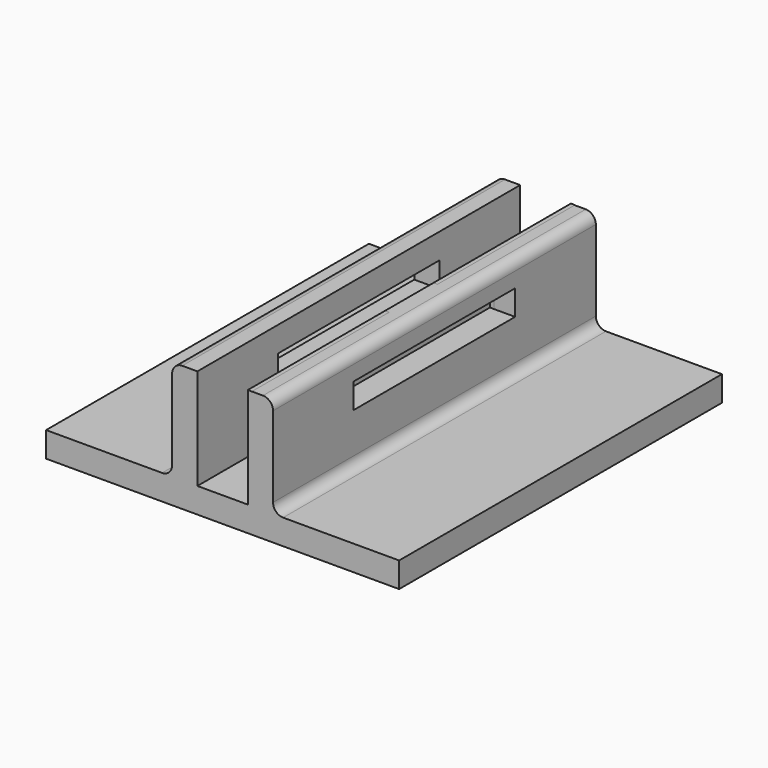
from build123d import *

# Parameters (mm, degrees)
F0_W     = 5
F0_H     = 20
F1_DEPTH = 40
F2_R     = 2
F3_R     = 2
F4_W     = 40
F4_H     = 5
F5_DEPTH = 25
F6_R     = 10
F7_DEPTH = 25
F8_W     = 80
F8_H     = 20
F8_W_2   = 40
F8_H_2   = 5
F9_DEPTH = 0.8


with BuildPart() as f1:
    # F0 (on Front) → F1 (new body, symmetric)
    with BuildSketch(Plane.XZ):
        with Locations((-12.5, 10)):
            Rectangle(F0_W, F0_H)
        Polygon((0, 0), (-10, 0), (-15, 0), (-40, 0), (-40, -5), (0, -5), align=None)
        with Locations((2.5, 10)):
            Rectangle(F0_W, F0_H)
        Polygon((5, 0), (0, 0), (0, -5), (30, -5), (30, 0), align=None)
    extrude(amount=F1_DEPTH, both=True)

    # F2
    f2_edges = [f1.edges().sort_by_distance(p)[0] for p in [
        (5, 0, 0),
        (-15, 0, 0),
    ]]
    fillet(f2_edges, radius=F2_R)

    # F3
    f3_edges = [f1.edges().sort_by_distance(p)[0] for p in [
        (-15, 0, 20),
        (5, 0, 20),
    ]]
    fillet(f3_edges, radius=F3_R)

    # F4 (on face) → F5 (cut)
    with BuildSketch(Plane(origin=(-15, 0, 0), x_dir=(0, -1, 0), z_dir=(-1, 0, 0))):
        with Locations((0, 12.5)):
            Rectangle(F4_W, F4_H)
    extrude(amount=-F5_DEPTH, mode=Mode.SUBTRACT)


with BuildPart() as f7:
    # F6 (on face) → F7 (new body)
    with BuildSketch(Plane.YZ.offset(5)):
        with Locations((0, 28)):
            Circle(F6_R)
    extrude(amount=-F7_DEPTH)


with BuildPart() as f9:
    # F8 (on Right) → F9 (new body)
    with BuildSketch(Plane.YZ):
        with Locations((0.0616917014, 10)):
            Rectangle(F8_W, F8_H)
        with Locations((-0.0052317232, 12.3988804966)):
            Rectangle(F8_W_2, F8_H_2, mode=Mode.SUBTRACT)
    extrude(amount=F9_DEPTH)

    # F10: cut F7
    add(f7.part, mode=Mode.SUBTRACT)


solid = Compound([f1.part, f9.part])
